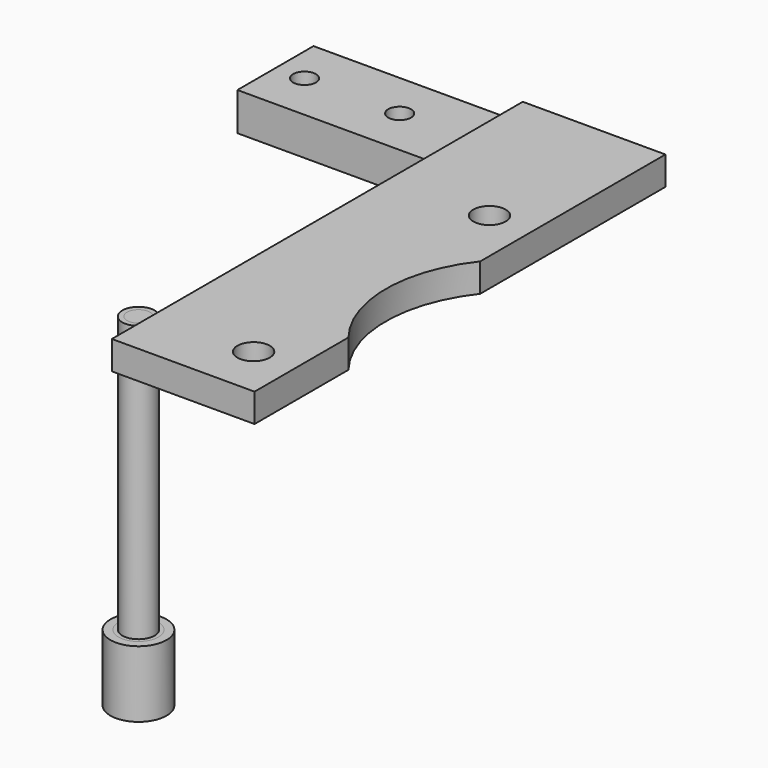
from build123d import *

# Parameters (mm, degrees)
CYLINDER_R               = 2.95
CYLINDER_DEPTH           = 7
CYLINDER001_R            = 1.7
CYLINDER001_DEPTH        = 30
CYLINDER1061_R           = 2.1
CYLINDER1061_DEPTH       = 7
CYLINDER1062_R           = 1.2
CYLINDER1062_DEPTH       = 30
PRISM008_DEPTH           = 5
CLONE411_PLACEMENT_ANGLE = 180
CLONE412_PLACEMENT_ANGLE = 180
CLONE416_PLACEMENT_ANGLE = 30
CLONE415_PLACEMENT_ANGLE = 30
CLONE414_PLACEMENT_ANGLE = 180
CLONE413_PLACEMENT_ANGLE = 180
CYLINDER1063_R           = 14
CYLINDER1063_DEPTH       = 10
BOX268_W                 = 15
BOX268_H                 = 44
BOX268_DEPTH             = 3
PAD_DEPTH                = 10


with BuildPart() as m3bolthead:
    # Cylinder → Cylinder (new body)
    with BuildSketch(Plane.XY):
        Circle(CYLINDER_R)
    extrude(amount=CYLINDER_DEPTH)


with BuildPart() as m3bolt:
    # Cylinder001 → Cylinder001 (new body)
    with BuildSketch(Plane.XY.offset(6)):
        Circle(CYLINDER001_R)
    extrude(amount=CYLINDER001_DEPTH)

    # Fusion: union M3BoltHead
    add(m3bolthead.part)


with BuildPart() as m2bolthead:
    # Cylinder1061 → Cylinder1061 (new body)
    with BuildSketch(Plane.XY):
        Circle(CYLINDER1061_R)
    extrude(amount=CYLINDER1061_DEPTH)


with BuildPart() as m2bolt:
    # Cylinder1062 → Cylinder1062 (new body)
    with BuildSketch(Plane.XY.offset(6)):
        Circle(CYLINDER1062_R)
    extrude(amount=CYLINDER1062_DEPTH)

    # Fusion158: union M2BoltHead
    add(m2bolthead.part)


with BuildPart() as m2nut:
    # Prism008 → Prism008 (new body)
    with BuildSketch(Plane.XY):
        Polygon((2.25, 0), (1.125, 1.948557), (-1.125, 1.948557), (-2.25, 0), (-1.125, -1.948557), (1.125, -1.948557), align=None)
    extrude(amount=PRISM008_DEPTH)


with BuildPart() as clone_of_m3bolt132:
    # Clone411 base: copy of M3Bolt
    add(m3bolt.part)


with BuildPart() as clone_of_m3bolt132_1:
    # Clone411 placement: moved
    add(clone_of_m3bolt132.part.moved(Location((32.500001, -17.5, 35.000014))).rotate(Axis((32.500001, -17.5, 35.000014), (1, 0, 0)), CLONE411_PLACEMENT_ANGLE))


with BuildPart() as clone_of_m3bolt133:
    # Clone412 base: copy of M3Bolt
    add(m3bolt.part)


with BuildPart() as clone_of_m3bolt133_1:
    # Clone412 placement: moved
    add(clone_of_m3bolt133.part.moved(Location((32.500001, -48.5, 35.000014))).rotate(Axis((32.500001, -48.5, 35.000014), (1, 0, 0)), CLONE412_PLACEMENT_ANGLE))


with BuildPart() as clone_of_m2nut001:
    # Clone416 base: copy of M2Nut
    add(m2nut.part)


with BuildPart() as clone_of_m2nut001_1:
    # Clone416 placement: moved
    add(clone_of_m2nut001.part.moved(Location((13, -4.9311, -2.5))).rotate(Axis((13, -4.9311, -2.5), (0, 0, 1)), CLONE416_PLACEMENT_ANGLE))


with BuildPart() as clone_of_m2nut:
    # Clone415 base: copy of M2Nut
    add(m2nut.part)


with BuildPart() as clone_of_m2nut_1:
    # Clone415 placement: moved
    add(clone_of_m2nut.part.moved(Location((3, -4.9311, -2.5))).rotate(Axis((3, -4.9311, -2.5), (0, 0, 1)), CLONE415_PLACEMENT_ANGLE))


with BuildPart() as clone414:
    # Clone414 base: copy of M2Bolt
    add(m2bolt.part)


with BuildPart() as clone414_1:
    # Clone414 placement: moved
    add(clone414.part.moved(Location((3, -4.9311, 33))).rotate(Axis((3, -4.9311, 33), (1, 0, 0)), CLONE414_PLACEMENT_ANGLE))


with BuildPart() as clone_of_m2bolt:
    # Clone413 base: copy of M2Bolt
    add(m2bolt.part)


with BuildPart() as clone_of_m2bolt_1:
    # Clone413 placement: moved
    add(clone_of_m2bolt.part.moved(Location((13, -4.9311, 33))).rotate(Axis((13, -4.9311, 33), (1, 0, 0)), CLONE413_PLACEMENT_ANGLE))


with BuildPart() as fusion159:
    # Cylinder1063 → Cylinder1063 (new body)
    with BuildSketch(Plane(origin=(48.000001, -33, -2.999986), x_dir=(1, 0, 0), z_dir=(0, 0, 1))):
        Circle(CYLINDER1063_R)
    extrude(amount=CYLINDER1063_DEPTH)

    # Fusion159: union Clone of M3Bolt132, Clone of M3Bolt133, Clone of M2Nut001, Clone of M2Nut, Clone414, Clone of M2Bolt
    add(clone_of_m3bolt132_1.part)
    add(clone_of_m3bolt133_1.part)
    add(clone_of_m2nut001_1.part)
    add(clone_of_m2nut_1.part)
    add(clone414_1.part)
    add(clone_of_m2bolt_1.part)


with BuildPart() as cube030:
    # Box268 → Box268 (new body)
    with BuildSketch(Plane(origin=(37.000001, -10, 3.000014), x_dir=(-1, 0, 0), z_dir=(0, 0, 1))):
        with Locations((7.5, 22)):
            Rectangle(BOX268_W, BOX268_H)
    extrude(amount=BOX268_DEPTH)


with BuildPart() as obj1:
    # Sketch → Pad (new body)
    with BuildSketch(Plane.XZ):
        with BuildLine():
            Line((0, 0), (0, 4))
            Line((0, 4), (21.000002, 4))
            ThreePointArc((21.000002, 4), (21.707113, 4.292898), (22.000001, 5.000014))
            Line((22.000001, 5.000014), (22.000001, 6.000014))
            Line((22.000001, 6.000014), (37.000001, 6.000014))
            Line((37.000001, 6.000014), (37.000001, 3.000014))
            Line((37.000001, 3.000014), (26.000001, 3.000014))
            ThreePointArc((26.000001, 3.000014), (25.292894, 2.707121), (25.000001, 2.000014))
            Line((25.000001, 2.000014), (25.000001, 0.999987))
            ThreePointArc((24, 0), (24.707103, 0.292888), (25.000001, 0.999987))
            Line((24, 0), (0, 0))
        make_face()
    extrude(amount=PAD_DEPTH)

    # Fusion157: union Cube030
    add(cube030.part)

    # Cut140: cut Fusion159
    add(fusion159.part, mode=Mode.SUBTRACT)


with BuildPart() as obj1_1:
    # Cut140 placement: moved
    add(obj1.part.moved(Location((-8, 33, 41))))


solid = Compound([m3bolt.part, m2bolt.part, m2nut.part, obj1_1.part])
